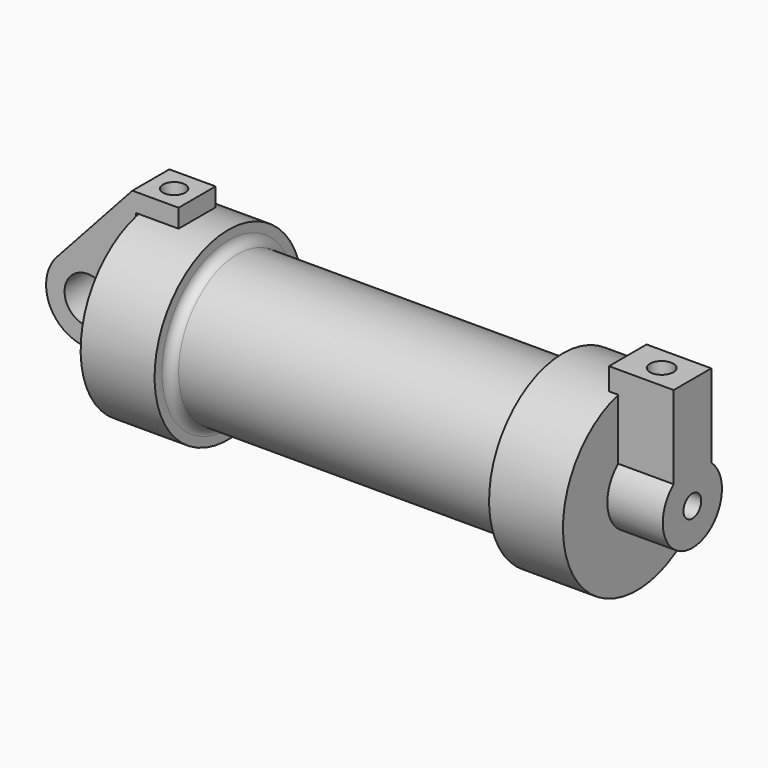
from build123d import *

# Parameters (mm, degrees)
F0_W          = 5.842
F0_H          = 12.7
F0_R          = 3.175
F2_DEPTH      = 3.175
F4_DEPTH      = 7.62
F4_DEPTH_BACK = 1.27
F5_R          = 1.524
F6_DEPTH      = 17.78
F7_R          = 1.60493029
F8_DEPTH      = 10.414
F9_R          = 1.27


with BuildPart() as f1:
    # F0 (on Front) → F1 (revolve)
    with BuildSketch(Plane.XZ):
        Polygon((5.842, 12.7), (5.842, 0), (66.294, 0), (66.294, 12.7), (56.134, 12.7), (56.134, 10.16), (10.16, 10.16), (10.16, 12.7), align=None)
        with Locations((2.921, 6.35)):
            Rectangle(F0_W, F0_H)
    revolve(axis=Axis((33.147, 0, 0), (-1, 0, 0)))

    # F9
    f9_edges = [f1.edges().sort_by_distance(p)[0] for p in [
        (56.134, 0, -10.16),
        (10.16, 0, -10.16),
        (33.147, 0, 10.16),
    ]]
    fillet(f9_edges, radius=F9_R)


with BuildPart() as f2:
    # F0 (on Front) → F2 (new body, symmetric)
    with BuildSketch(Plane.XZ):
        with BuildLine():
            Line((-0.9398, 0), (0, 0))
            Line((0, 0), (0, 12.7))
            Line((0, 12.7), (5.842, 12.7))
            Line((5.842, 12.7), (5.842, 15.24))
            Line((5.842, 15.24), (-0.508, 15.24))
            Line((-0.508, 15.24), (-10.8806298187, 3.8475430269))
            ThreePointArc((-10.8806298187, 3.8475430269), (-4.5919612295, 5.3297205562), (-0.9398, 0))
        make_face()
        with BuildLine():
            Line((5.842, 0), (0, 0))
            Line((0, 0), (-0.9398, 0))
            ThreePointArc((-0.9398, 0), (-3.1957909266, -4.5493385486), (-8.1826630726, -5.5069827884))
            Line((-8.1826630726, -5.5069827884), (5.842, -9.398))
            Line((5.842, -9.398), (5.842, 0))
        make_face()
        with BuildLine():
            ThreePointArc((-8.1826630726, -5.5069827884), (-3.1957909266, -4.5493385486), (-0.9398, 0))
            ThreePointArc((-0.9398, 0), (-4.5919612295, 5.3297205562), (-10.8806298187, 3.8475430269))
            ThreePointArc((-10.8806298187, 3.8475430269), (-12.1459778134, -1.5837270034), (-8.1826630726, -5.5069827884))
        make_face()
        with Locations((-6.6548, 0)):
            Circle(F0_R, mode=Mode.SUBTRACT)
    extrude(amount=F2_DEPTH, both=True)

    # F5 (on face) → F6 (cut)
    with BuildSketch(Plane.XY.offset(15.24)):
        with Locations((2.6858148674, 0)):
            Circle(F5_R)
    extrude(amount=-F6_DEPTH, mode=Mode.SUBTRACT)


with BuildPart() as f4:
    # F3 (on face) → F4 (new body, two sides)
    with BuildSketch(Plane.YZ.offset(66.294)) as f4_sk:
        with BuildLine():
            ThreePointArc((-3.2105364371, 3.936858619), (0.0281273028, 5.0799221308), (3.2539346721, 3.9010651302))
            Line((3.2539346721, 3.9010651302), (3.2539346721, 12.2760705908))
            ThreePointArc((3.2539346721, 12.2760705908), (0.0224379801, 12.6999801786), (-3.2105364371, 12.2874918428))
            Line((-3.2105364371, 12.2874918428), (-3.2105364371, 3.936858619))
        make_face()
        with BuildLine():
            ThreePointArc((-1.524, 0), (0, 1.524), (1.524, 0))
            Line((1.524, 0), (3.2539346721, 0))
            Line((3.2539346721, 0), (3.2539346721, 3.9010651302))
            ThreePointArc((3.2539346721, 3.9010651302), (0.0281273028, 5.0799221308), (-3.2105364371, 3.936858619))
            Line((-3.2105364371, 3.936858619), (-3.2105364371, 0))
            Line((-3.2105364371, 0), (-1.524, 0))
        make_face()
        with BuildLine():
            Line((3.2539346721, 0), (1.524, 0))
            ThreePointArc((1.524, 0), (0, -1.524), (-1.524, 0))
            Line((-1.524, 0), (-3.2105364371, 0))
            Line((-3.2105364371, 0), (-3.2105364371, 3.936858619))
            ThreePointArc((-3.2105364371, 3.936858619), (-2.1790909687, -4.5888955698), (5.08, 0))
            ThreePointArc((5.08, 0), (4.6008905733, 2.1536494452), (3.2539346721, 3.9010651302))
            Line((3.2539346721, 3.9010651302), (3.2539346721, 0))
        make_face()
        with BuildLine():
            ThreePointArc((-3.2105364371, 12.2874918428), (0.0224379801, 12.6999801786), (3.2539346721, 12.2760705908))
            Line((3.2539346721, 12.2760705908), (3.2539346721, 15.3298256919))
            Line((3.2539346721, 15.3298256919), (-3.2105364371, 15.3298256919))
            Line((-3.2105364371, 15.3298256919), (-3.2105364371, 12.2874918428))
        make_face()
    extrude(amount=F4_DEPTH)
    extrude(f4_sk.sketch, amount=-F4_DEPTH_BACK)

    # F7 (on face) → F8 (cut)
    with BuildSketch(Plane.XY.offset(15.3298256919)):
        with Locations((69.6979388595, 0)):
            Circle(F7_R)
    extrude(amount=-F8_DEPTH, mode=Mode.SUBTRACT)


solid = Compound([f1.part, f2.part, f4.part])
